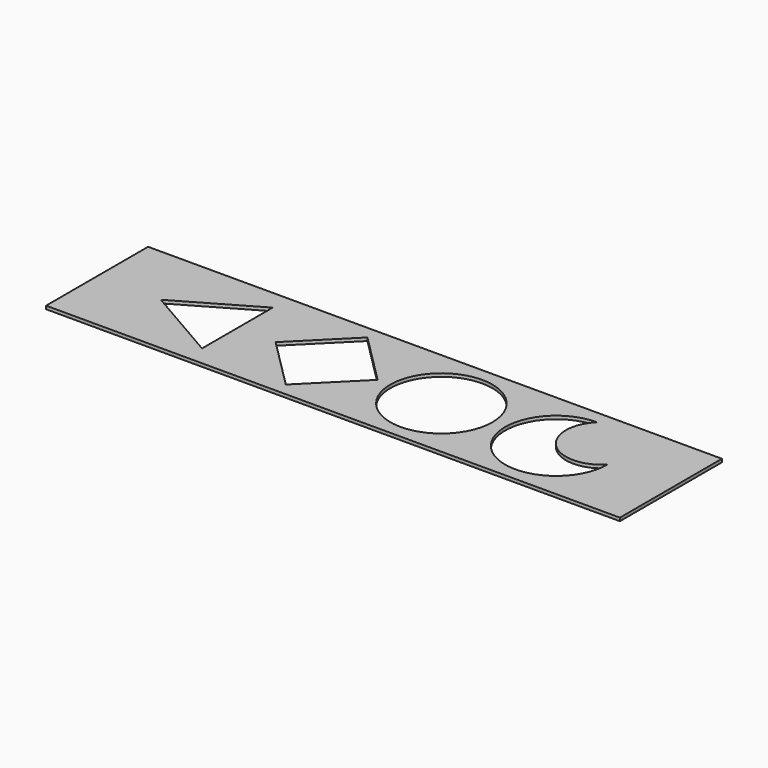
from build123d import *

# Parameters (mm, degrees)
SKETCH_W  = 90
SKETCH_H  = 20
SKETCH_R  = 8
PAD_DEPTH = 0.5


with BuildPart() as part:
    # Sketch → Pad (new body)
    with BuildSketch(Plane.XY):
        with Locations((45, 10)):
            Rectangle(SKETCH_W, SKETCH_H)
        with Locations((54, 10)):
            Circle(SKETCH_R, mode=Mode.SUBTRACT)
        Polygon((44, 10), (36, 18), (28, 10), (36, 2), align=None, mode=Mode.SUBTRACT)
        with BuildLine():
            ThreePointArc((72, 18), (66.343146, 4.343146), (80, 10))
            ThreePointArc((72, 18), (72, 10), (80, 10))
        make_face(mode=Mode.SUBTRACT)
        Polygon((22, 3.071824), (22, 16.92823), (10, 10.000027), align=None, mode=Mode.SUBTRACT)
    extrude(amount=PAD_DEPTH)


solid = part.part
